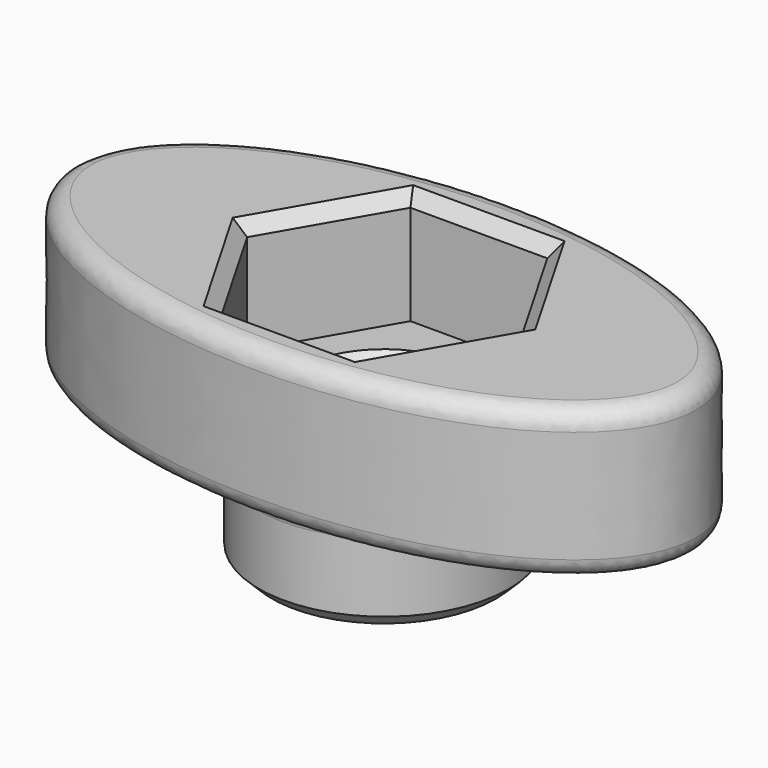
from build123d import *

# Parameters (mm, degrees)
F1_DEPTH = 12
F2_R     = 10
F3_DEPTH = 8
F5_DEPTH = 9
F6_R     = 6.05
F7_DEPTH = 20.001
F8_R     = 1.5
F9_SIZE  = 1


with BuildPart() as f1:
    # F0 (on Top) → F1 (new body)
    with BuildSketch(Plane.XY):
        with BuildLine():
            add(Edge.make_bspline(
                [(-25, 0), (-25, -22.51666), (12.5, -11.25833), (50, 0), (12.5, 11.25833), (-25, 22.51666), (-25, 0)],
                knots=[0, 0, 0, 2.094395, 2.094395, 4.18879, 4.18879, 6.283185, 6.283185, 6.283185], degree=2, weights=[1, 0.5, 1, 0.5, 1, 0.5, 1]))
        make_face()
    extrude(amount=F1_DEPTH)

    # F2 (on face) → F3 (join)
    with BuildSketch(Plane(origin=(0, 0, 0), x_dir=(1, 0, 0), z_dir=(0, 0, -1))):
        Circle(F2_R)
    extrude(amount=F3_DEPTH)

    # F4 (on face) → F5 (cut)
    with BuildSketch(Plane.XY.offset(12)):
        Polygon((5.484828, -9.5), (10.969655, 0), (5.484828, 9.5), (-5.484828, 9.5), (-10.969655, 0), (-5.484828, -9.5), align=None)
    extrude(amount=-F5_DEPTH, mode=Mode.SUBTRACT)

    # F6 (on face) → F7 (cut, through all)
    with BuildSketch(Plane(origin=(0, 0, -8), x_dir=(1, 0, 0), z_dir=(0, 0, -1))):
        Circle(F6_R)
    extrude(amount=-F7_DEPTH, mode=Mode.SUBTRACT)

    # F8
    f8_edges = [f1.edges().sort_by_distance(p)[0] for p in [
        (25, -2e-06, 12),
        (25, -2e-06, 0),
        (-10, 0, 0),
    ]]
    fillet(f8_edges, radius=F8_R)

    # F9
    f9_edges = [f1.edges().sort_by_distance(p)[0] for p in [
        (-6.05, 0, -8),
        (-10, 0, -8),
        (-8.227241, 4.75, 12),
        (-8.227241, -4.75, 12),
        (0, -9.5, 12),
        (8.227241, -4.75, 12),
        (8.227241, 4.75, 12),
        (0, 9.5, 12),
        (-6.05, 0, 3),
    ]]
    chamfer(f9_edges, length=F9_SIZE)


solid = f1.part
